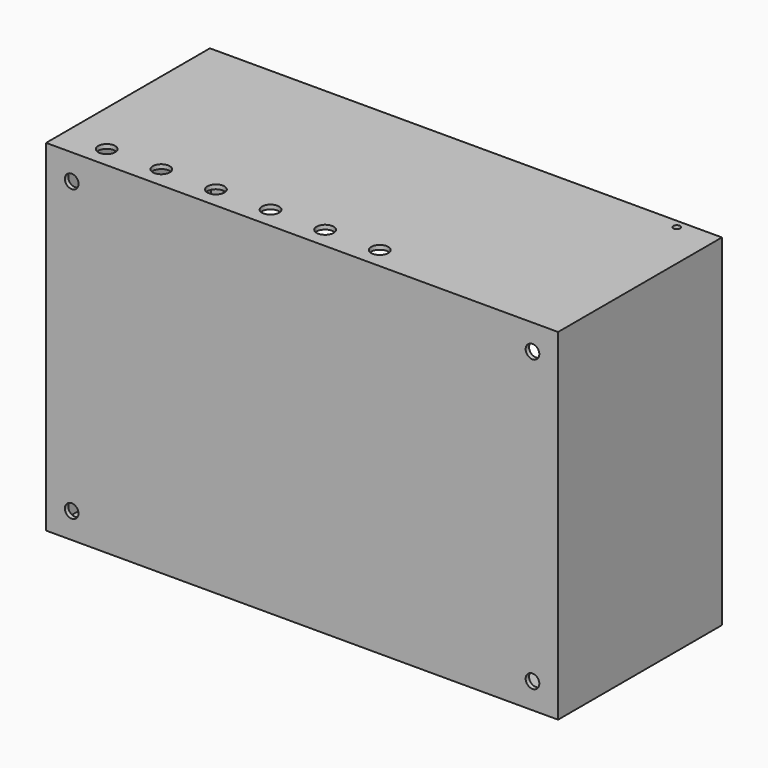
from build123d import *

# Parameters (mm, degrees)
F0_W      = 300
F0_H      = 120
F1_DEPTH  = 200
F2_T      = -2.5
F3_W      = 297.5
F3_H      = 197.5
F3_W_2    = 277.5
F3_H_2    = 177.5
F4_DEPTH  = 2.5
F5_R      = 2
F6_DEPTH  = 200.001
F7_R      = 5
F8_DEPTH  = 5
F9_R      = 4
F10_DEPTH = 2.5
F11_R     = 12.5
F12_DEPTH = 3


with BuildPart() as f1:
    # F0 (on Top) → F1 (new body)
    with BuildSketch(Plane.XY):
        with Locations((150, 60)):
            Rectangle(F0_W, F0_H)
    extrude(amount=F1_DEPTH)

    # F2
    f2_openings = [f1.faces().sort_by_distance(p)[0] for p in [
        (150, 120, 100),
    ]]
    offset(amount=F2_T, openings=f2_openings)

    # F3 (on face) → F4 (join)
    with BuildSketch(Plane(origin=(0, 120, 0), x_dir=(-1, 0, 0), z_dir=(0, 1, 0))):
        with Locations((-148.75, 98.75)):
            Rectangle(F3_W, F3_H)
        with Locations((-148.75, 98.75)):
            Rectangle(F3_W_2, F3_H_2, mode=Mode.SUBTRACT)
    extrude(amount=-F4_DEPTH)

    # F5 (on face) → F6 (cut, through all)
    with BuildSketch(Plane.XY.offset(200)):
        with Locations((277.5, 115)):
            Circle(F5_R)
    extrude(amount=-F6_DEPTH, mode=Mode.SUBTRACT)

    # F7 (on face) → F8 (cut)
    with BuildSketch(Plane.XY.offset(200)):
        with Locations((185.5, 12.5)):
            Circle(F7_R)
        with Locations((153.5, 12.5)):
            Circle(F7_R)
        with Locations((121.5, 12.5)):
            Circle(F7_R)
        with Locations((89.5, 12.5)):
            Circle(F7_R)
        with Locations((57.5, 12.5)):
            Circle(F7_R)
        with Locations((25.5, 12.5)):
            Circle(F7_R)
    extrude(amount=-F8_DEPTH, mode=Mode.SUBTRACT)

    # F9 (on face) → F10 (cut)
    with BuildSketch(Plane.XZ):
        with Locations((285, 185)):
            Circle(F9_R)
        with Locations((285, 15)):
            Circle(F9_R)
        with Locations((15, 185)):
            Circle(F9_R)
        with Locations((15, 15)):
            Circle(F9_R)
    extrude(amount=-F10_DEPTH, mode=Mode.SUBTRACT)

    # F11 (on face) → F12 (cut)
    with BuildSketch(Plane.XY):
        with Locations((150, 25)):
            Circle(F11_R)
        with Locations((195, 25)):
            Circle(F11_R)
        with Locations((105, 25)):
            Circle(F11_R)
    extrude(amount=F12_DEPTH, mode=Mode.SUBTRACT)


solid = f1.part
